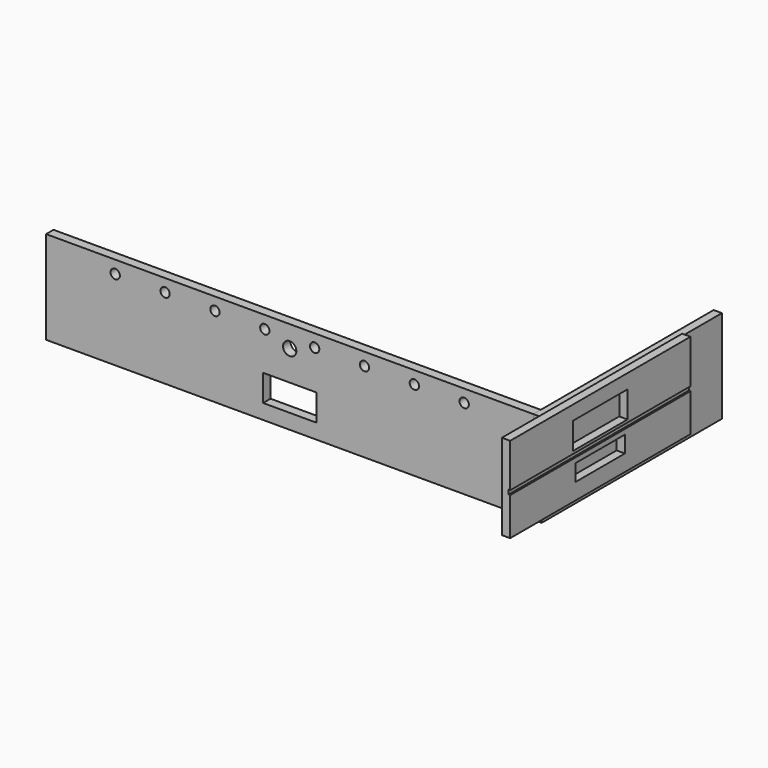
from build123d import *

# Parameters (mm, degrees)
F0_W      = 1466
F0_H      = 280
F0_W_2    = 160
F0_H_2    = 80
F0_R      = 14
F0_R_2    = 20
F1_DEPTH  = 28
F2_W      = 678
F2_H      = 280
F3_DEPTH  = 25
F4_W      = 1242
F4_H      = 13
F5_DEPTH  = 5
F6_W      = 678
F6_H      = 258
F7_DEPTH  = 25
F8_W      = 205
F8_H      = 80
F8_W_2    = 185
F8_H_2    = 50
F9_DEPTH  = 25
F10_W     = 678
F10_H     = 13
F11_DEPTH = 5


with BuildPart() as f1:
    # F0 (on Front) → F1 (new body)
    with BuildSketch(Plane.XZ):
        with Locations((-299.3241530657, -265.0694537163)):
            Rectangle(F0_W, F0_H)
        with Locations((-299.3241530657, -320.0694537163)):
            Rectangle(F0_W_2, F0_H_2, mode=Mode.SUBTRACT)
        with Locations((-824.3241530657, -163.0694537163)):
            Circle(F0_R, mode=Mode.SUBTRACT)
        with Locations((-674.3241530657, -163.0694537163)):
            Circle(F0_R, mode=Mode.SUBTRACT)
        with Locations((-524.3241530657, -163.0694537163)):
            Circle(F0_R, mode=Mode.SUBTRACT)
        with Locations((-374.3241530657, -163.0694537163)):
            Circle(F0_R, mode=Mode.SUBTRACT)
        with Locations((-299.3241530657, -190.0694537163)):
            Circle(F0_R_2, mode=Mode.SUBTRACT)
        with Locations((-224.3241530657, -163.0694537163)):
            Circle(F0_R, mode=Mode.SUBTRACT)
        with Locations((-74.3241530657, -163.0694537163)):
            Circle(F0_R, mode=Mode.SUBTRACT)
        with Locations((75.6758469343, -163.0694537163)):
            Circle(F0_R, mode=Mode.SUBTRACT)
        with Locations((225.6758469343, -163.0694537163)):
            Circle(F0_R, mode=Mode.SUBTRACT)
    extrude(amount=F1_DEPTH)

    # F4 (on face) → F5 (cut)
    with BuildSketch(Plane(origin=(0, 0, 0), x_dir=(-1, 0, 0), z_dir=(0, 1, 0))):
        with Locations((299.3241530657, -262.5694537163)):
            Rectangle(F4_W, F4_H)
    extrude(amount=-F5_DEPTH, mode=Mode.SUBTRACT)


with BuildPart() as f3:
    # F2 (on face) → F3 (new body)
    with BuildSketch(Plane.YZ.offset(433.6758469343)):
        with Locations((311, -265.0694537163)):
            Rectangle(F2_W, F2_H)
    extrude(amount=F3_DEPTH)


with BuildPart() as f7:
    # F6 (on face) → F7 (new body)
    with BuildSketch(Plane.YZ.offset(458.6758469343)):
        with Locations((161.3877224861, -247.7558404207)):
            Rectangle(F6_W, F6_H)
    extrude(amount=F7_DEPTH)

    # F8 (on face) → F9 (cut, through all)
    with BuildSketch(Plane.YZ.offset(483.6758469343)):
        with Locations((161.3877224861, -201.7558404207)):
            Rectangle(F8_W, F8_H)
        with Locations((161.3877224861, -302.7558404207)):
            Rectangle(F8_W_2, F8_H_2)
    extrude(amount=-F9_DEPTH, mode=Mode.SUBTRACT)

    # F10 (on face) → F11 (cut)
    with BuildSketch(Plane.YZ.offset(483.6758469343)):
        with Locations((161.3877224861, -256.2558404207)):
            Rectangle(F10_W, F10_H)
    extrude(amount=-F11_DEPTH, mode=Mode.SUBTRACT)


solid = Compound([f1.part, f3.part, f7.part])
